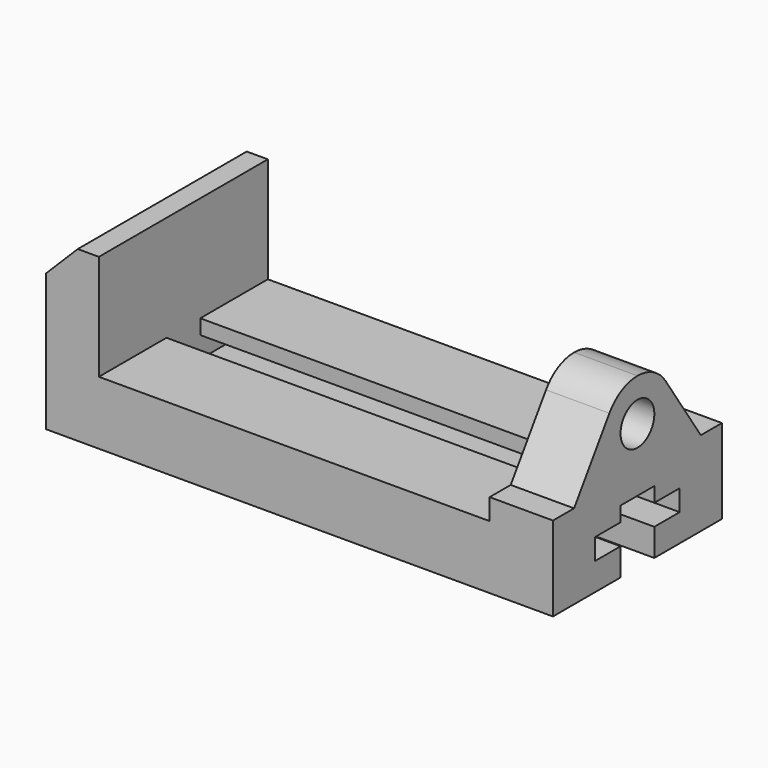
from build123d import *

# Parameters (mm, degrees)
F0_R     = 12.7
F1_DEPTH = 38.1
F3_DEPTH = 234.95
F4_DEPTH = 234.95
F7_DEPTH = 31.75
F9_DEPTH = 127.001


with BuildPart() as f1:
    # F0 (on Right) → F1 (new body)
    with BuildSketch(Plane.YZ):
        with BuildLine():
            ThreePointArc((84.593426, 90.350173), (75.452941, 98.611765), (63.5, 101.6))
            ThreePointArc((63.5, 101.6), (51.547059, 98.611765), (42.406574, 90.350173))
            Line((42.406574, 90.350173), (15.875, 50.8))
            Line((15.875, 50.8), (0, 50.8))
            Line((0, 50.8), (0, 0))
            Line((0, 0), (50.8, 0))
            Line((50.8, 0), (50.8, 16.51))
            Line((50.8, 16.51), (31.75, 16.51))
            Line((31.75, 16.51), (31.75, 29.21))
            Line((31.75, 29.21), (50.8, 29.21))
            Line((50.8, 29.21), (50.8, 38.1))
            Line((50.8, 38.1), (76.2, 38.1))
            Line((76.2, 38.1), (76.2, 29.21))
            Line((76.2, 29.21), (95.25, 29.21))
            Line((95.25, 29.21), (95.25, 16.51))
            Line((95.25, 16.51), (76.2, 16.51))
            Line((76.2, 16.51), (76.2, 0))
            Line((76.2, 0), (127, 0))
            Line((127, 0), (127, 50.8))
            Line((127, 50.8), (111.125, 50.8))
            Line((111.125, 50.8), (84.593426, 90.350173))
        make_face()
        with Locations((63.5, 76.2)):
            Circle(F0_R, mode=Mode.SUBTRACT)
    extrude(amount=F1_DEPTH)

    # F2 (on face) → F3 (join)
    with BuildSketch(Plane(origin=(0, 0, 0), x_dir=(0, -1, 0), z_dir=(-1, 0, 0))):
        Polygon((-127, 38.1), (-127, 0), (-76.2, 0), (-76.2, 16.51), (-95.25, 16.51), (-95.25, 29.21), (-76.2, 29.21), (-76.2, 38.1), align=None)
    extrude(amount=F3_DEPTH)

    # F2 (on face) → F4 (join)
    with BuildSketch(Plane(origin=(0, 0, 0), x_dir=(0, -1, 0), z_dir=(-1, 0, 0))):
        Polygon((0, 38.1), (-50.8, 38.1), (-50.8, 29.21), (-31.75, 29.21), (-31.75, 16.51), (-50.8, 16.51), (-50.8, 0), (0, 0), align=None)
    extrude(amount=F4_DEPTH)

    # F6 (on offset) → F7 (join)
    with BuildSketch(Plane.YZ.offset(-234.95)):
        Polygon((76.2, 29.21), (76.2, 38.1), (127, 38.1), (127, 101.6), (0, 101.6), (0, 38.1), (50.8, 38.1), (50.8, 29.21), (31.75, 29.21), (31.75, 16.51), (50.8, 16.51), (50.8, 0), (76.2, 0), (76.2, 16.51), (95.25, 16.51), (95.25, 29.21), align=None)
        Polygon((0, 0), (50.8, 0), (50.8, 16.51), (31.75, 16.51), (31.75, 29.21), (50.8, 29.21), (50.8, 38.1), (0, 38.1), align=None)
        Polygon((127, 38.1), (76.2, 38.1), (76.2, 29.21), (95.25, 29.21), (95.25, 16.51), (76.2, 16.51), (76.2, 0), (127, 0), align=None)
    extrude(amount=-F7_DEPTH)

    # F8 (on face) → F9 (cut, through all)
    with BuildSketch(Plane.XZ):
        Polygon((-266.7, 101.6), (-266.7, 82.55), (-247.65, 101.6), align=None)
    extrude(amount=-F9_DEPTH, mode=Mode.SUBTRACT)


solid = f1.part
